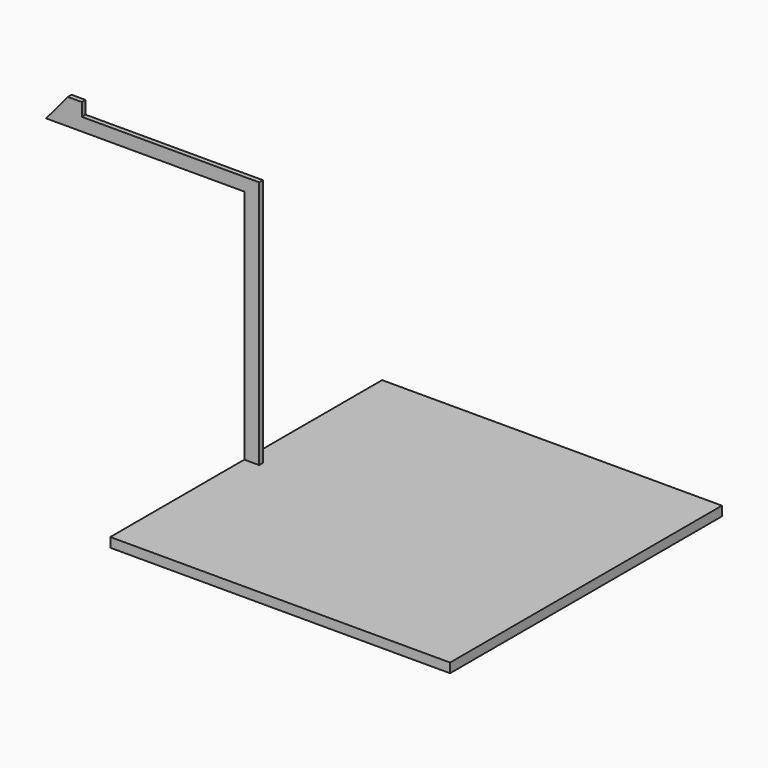
from build123d import *

# Parameters (mm, degrees)
F1_DEPTH = 6.35
F2_DEPTH = 25
F4_DEPTH = 12.7


with BuildPart() as f1:
    # F0 (on Front) → F1 (new body)
    with BuildSketch(Plane.XZ):
        with BuildLine():
            Line((-31.097302, 79.375), (-31.097302, 0))
            Line((-31.097302, 0), (597.552698, 0))
            Line((597.552698, 0), (597.552698, 158.75))
            Line((597.552698, 158.75), (76.952726, 158.75))
            ThreePointArc((76.952726, 158.75), (10.848593, 135.505324), (-31.097302, 79.375))
        make_face()
        Polygon((597.552698, 158.75), (597.552698, 0), (617.552698, 0), (617.552698, 330.2), (617.552698, 347.6625), (597.552698, 347.6625), (597.552698, 330.2), align=None)
        Polygon((330.852698, 330.2), (597.552698, 330.2), (597.552698, 347.6625), (378.905624, 347.6625), (378.905624, 365.125), (360.092938, 365.125), align=None)
    extrude(amount=F1_DEPTH)

    # F0 (on Front) → F2 (cut)
    with BuildSketch(Plane.XZ):
        with BuildLine():
            Line((-31.097302, 79.375), (-31.097302, 0))
            Line((-31.097302, 0), (597.552698, 0))
            Line((597.552698, 0), (597.552698, 158.75))
            Line((597.552698, 158.75), (76.952726, 158.75))
            ThreePointArc((76.952726, 158.75), (10.848593, 135.505324), (-31.097302, 79.375))
        make_face()
    extrude(amount=F2_DEPTH, mode=Mode.SUBTRACT)

    # F3 (on face) → F4 (join)
    with BuildSketch(Plane(origin=(0, 0, 0), x_dir=(1, 0, 0), z_dir=(0, 0, -1))):
        Polygon((597.552698, 16.692741), (597.552698, 3.175), (597.552698, -225.425), (1054.752698, -225.425), (1054.752698, 231.775), (597.552698, 231.775), align=None)
    extrude(amount=-F4_DEPTH)


solid = f1.part
